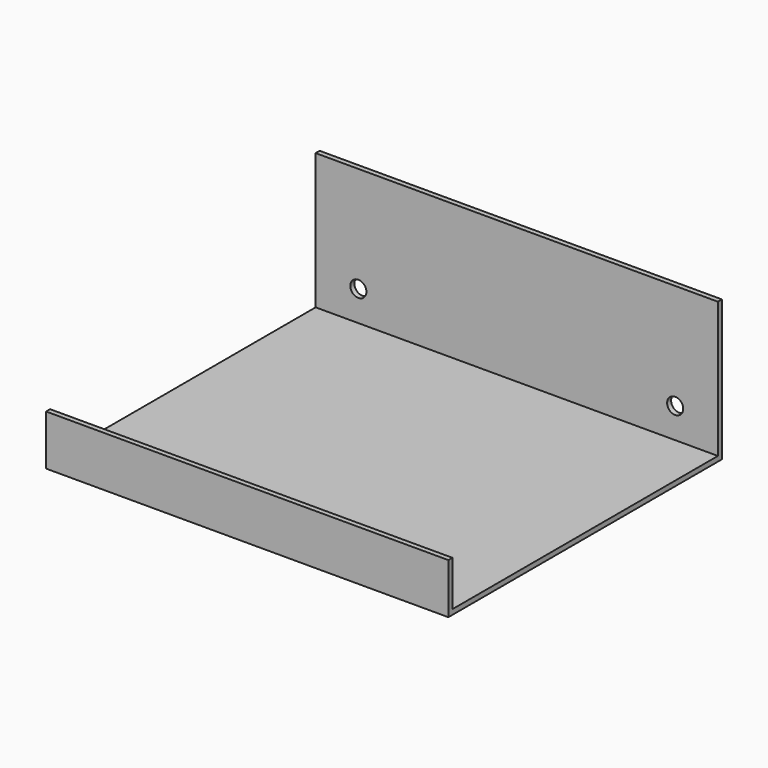
from build123d import *

# Parameters (mm, degrees)
SKETCH_W        = 80
SKETCH_H        = 68
PAD_DEPTH       = 28
SKETCH001_W     = 66
SKETCH001_H     = 27
POCKET_DEPTH    = 80
SKETCH002_W     = 1
SKETCH002_H     = 18
POCKET001_DEPTH = 80
SKETCH003_R     = 1.6
POCKET002_DEPTH = 5


with BuildPart() as part:
    # Sketch → Pad (new body)
    with BuildSketch(Plane.XY):
        with Locations((40, 34)):
            Rectangle(SKETCH_W, SKETCH_H)
    extrude(amount=PAD_DEPTH)

    # Sketch001 (on Face4 of Pad) → Pocket (cut)
    with BuildSketch(Plane(origin=(0, 0, 0), x_dir=(0, -1, 0), z_dir=(-1, 0, 0))):
        with Locations((-34, 14.5)):
            Rectangle(SKETCH001_W, SKETCH001_H)
    extrude(amount=-POCKET_DEPTH, mode=Mode.SUBTRACT)

    # Sketch002 (on Face2 of Pocket) → Pocket001 (cut)
    with BuildSketch(Plane(origin=(0, 0, 0), x_dir=(0, -1, 0), z_dir=(-1, 0, 0))):
        with Locations((-0.5, 19)):
            Rectangle(SKETCH002_W, SKETCH002_H)
    extrude(amount=-POCKET001_DEPTH, mode=Mode.SUBTRACT)

    # Sketch003 (on Face6 of Pocket001) → Pocket002 (cut)
    with BuildSketch(Plane(origin=(0, 68, 0), x_dir=(-1, 0, 0), z_dir=(0, 1, 0))):
        with Locations((-71.5, 7)):
            Circle(SKETCH003_R)
        with Locations((-8.5, 7)):
            Circle(SKETCH003_R)
    extrude(amount=-POCKET002_DEPTH, mode=Mode.SUBTRACT)


solid = part.part
